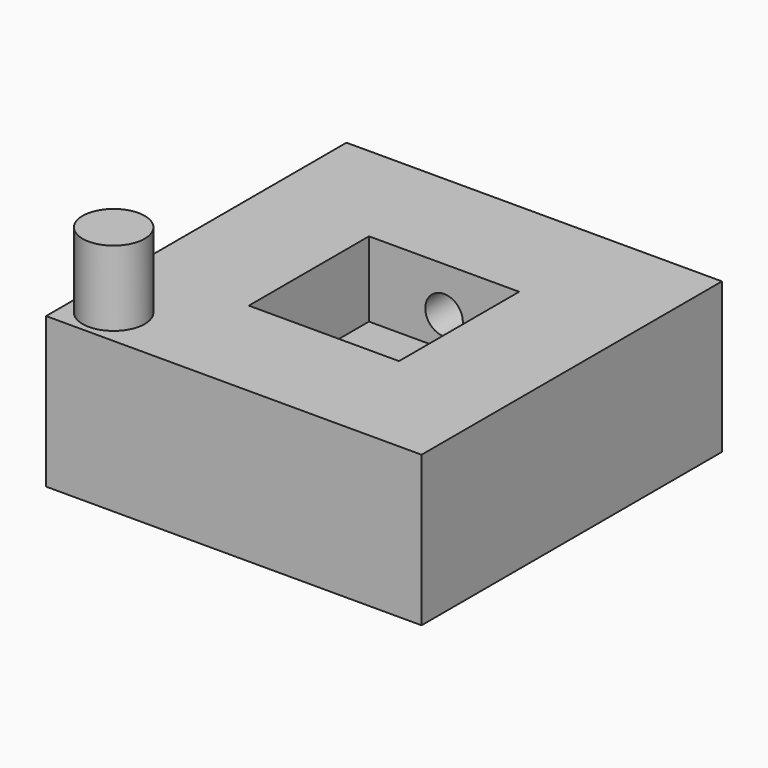
from build123d import *

# Parameters (mm, degrees)
F0_W     = 50
F0_H     = 50
F1_DEPTH = 20
F2_W     = 20
F2_H     = 20
F3_DEPTH = 10
F4_R     = 4.13691
F5_DEPTH = 10
F6_R     = 2.5
F7_DEPTH = 24.5615


with BuildPart() as f1:
    # F0 (on Top) → F1 (new body)
    with BuildSketch(Plane.XY):
        Rectangle(F0_W, F0_H)
    extrude(amount=F1_DEPTH)

    # F2 (on face) → F3 (cut)
    with BuildSketch(Plane.XY.offset(20)):
        Rectangle(F2_W, F2_H)
    extrude(amount=-F3_DEPTH, mode=Mode.SUBTRACT)

    # F4 (on face) → F5 (join)
    with BuildSketch(Plane.XY.offset(20)):
        with Locations((-20, -20)):
            Circle(F4_R)
    extrude(amount=F5_DEPTH)

    # F6 (on face) → F7 (cut)
    with BuildSketch(Plane.XZ.offset(-10)):
        with Locations((0, 14)):
            Circle(F6_R)
    extrude(amount=-F7_DEPTH, mode=Mode.SUBTRACT)


solid = f1.part
